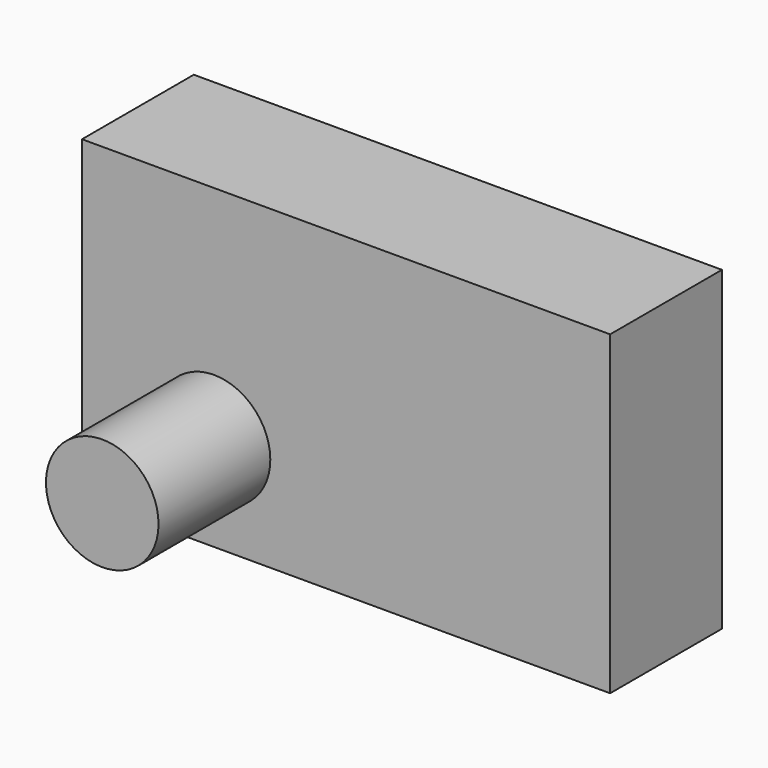
from build123d import *

# Parameters (mm, degrees)
F0_W     = 96.003198
F0_H     = 57.444536
F1_DEPTH = 12.7
F2_R     = 10.229848
F3_DEPTH = 25.4


with BuildPart() as f1:
    # F0 (on Front) → F1 (new body, symmetric)
    with BuildSketch(Plane.XZ):
        Rectangle(F0_W, F0_H)
    extrude(amount=F1_DEPTH, both=True)

    # F2 (on face) → F3 (join)
    with BuildSketch(Plane.XZ.offset(12.7)):
        with Locations((-24.000801, -11.410213)):
            Circle(F2_R)
    extrude(amount=F3_DEPTH)


solid = f1.part
